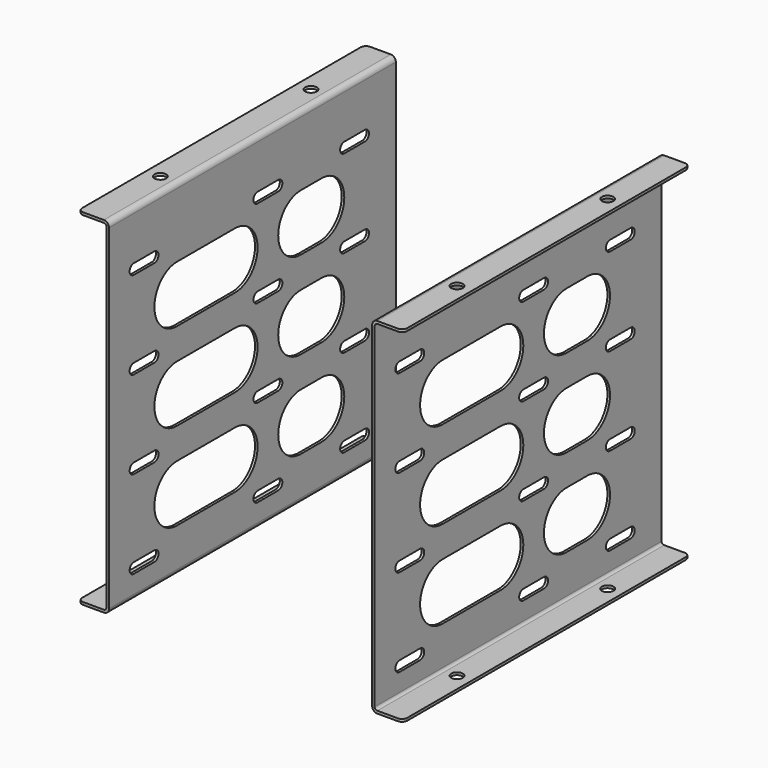
from build123d import *

# Parameters (mm, degrees)
F1_DEPTH  = 139
F3_D      = 4.5
F5_DEPTH  = 25
F6_R      = 2
F7_R      = 2
F8_R      = 2
F9_R      = 2
F11_DEPTH = 25


with BuildPart() as f1:
    # F0 (on Front) → F1 (new body)
    with BuildSketch(Plane.XZ):
        with BuildLine():
            Line((0, 1), (0, 0))
            Line((0, 0), (10, 0))
            ThreePointArc((10, 0), (11.414214, 0.585786), (12, 2))
            Line((12, 2), (12, 132))
            ThreePointArc((12, 132), (11.414214, 133.414214), (10, 134))
            Line((10, 134), (0, 134))
            Line((0, 134), (0, 133))
            Line((0, 133), (10, 133))
            ThreePointArc((10, 133), (10.707107, 132.707107), (11, 132))
            Line((11, 132), (11, 2))
            ThreePointArc((11, 2), (10.707107, 1.292893), (10, 1))
            Line((10, 1), (0, 1))
        make_face()
    extrude(amount=F1_DEPTH)

    # F3 (through all)
    with Locations(Plane.XY.offset(134)):
        with Locations((5.5, -106), (5.5, -33)):
            Hole(F3_D / 2)

    # F4 (on face) → F5 (cut)
    with BuildSketch(Plane(origin=(11, 0, 0), x_dir=(0, -1, 0), z_dir=(-1, 0, 0))):
        with BuildLine():
            Line((25, 13), (15, 13))
            ThreePointArc((15, 13), (13, 11), (15, 9))
            Line((15, 9), (25, 9))
            ThreePointArc((25, 9), (27, 11), (25, 13))
        make_face()
        with BuildLine():
            Line((25, 47), (15, 47))
            ThreePointArc((15, 47), (13, 45), (15, 43))
            Line((15, 43), (25, 43))
            ThreePointArc((25, 43), (27, 45), (25, 47))
        make_face()
        with BuildLine():
            Line((25, 81), (15, 81))
            ThreePointArc((15, 81), (13, 79), (15, 77))
            Line((15, 77), (25, 77))
            ThreePointArc((25, 77), (27, 79), (25, 81))
        make_face()
        with BuildLine():
            Line((25, 115), (15, 115))
            ThreePointArc((15, 115), (13, 113), (15, 111))
            Line((15, 111), (25, 111))
            ThreePointArc((25, 111), (27, 113), (25, 115))
        make_face()
        with BuildLine():
            Line((67, 13), (57, 13))
            ThreePointArc((57, 13), (55, 11), (57, 9))
            Line((57, 9), (67, 9))
            ThreePointArc((67, 9), (69, 11), (67, 13))
        make_face()
        with BuildLine():
            Line((67, 47), (57, 47))
            ThreePointArc((57, 47), (55, 45), (57, 43))
            Line((57, 43), (67, 43))
            ThreePointArc((67, 43), (69, 45), (67, 47))
        make_face()
        with BuildLine():
            Line((67, 81), (57, 81))
            ThreePointArc((57, 81), (55, 79), (57, 77))
            Line((57, 77), (67, 77))
            ThreePointArc((67, 77), (69, 79), (67, 81))
        make_face()
        with BuildLine():
            Line((67, 115), (57, 115))
            ThreePointArc((57, 115), (55, 113), (57, 111))
            Line((57, 111), (67, 111))
            ThreePointArc((67, 111), (69, 113), (67, 115))
        make_face()
        with BuildLine():
            Line((127, 13), (117, 13))
            ThreePointArc((117, 13), (115, 11), (117, 9))
            Line((117, 9), (127, 9))
            ThreePointArc((127, 9), (129, 11), (127, 13))
        make_face()
        with BuildLine():
            Line((127, 47), (117, 47))
            ThreePointArc((117, 47), (115, 45), (117, 43))
            Line((117, 43), (127, 43))
            ThreePointArc((127, 43), (129, 45), (127, 47))
        make_face()
        with BuildLine():
            Line((127, 81), (117, 81))
            ThreePointArc((117, 81), (115, 79), (117, 77))
            Line((117, 77), (127, 77))
            ThreePointArc((127, 77), (129, 79), (127, 81))
        make_face()
        with BuildLine():
            Line((127, 115), (117, 115))
            ThreePointArc((117, 115), (115, 113), (117, 111))
            Line((117, 111), (127, 111))
            ThreePointArc((127, 111), (129, 113), (127, 115))
        make_face()
    extrude(amount=-F5_DEPTH, mode=Mode.SUBTRACT)

    # F6
    f6_edges = [f1.edges().sort_by_distance(p)[0] for p in [
        (0, -139, 133.5),
    ]]
    fillet(f6_edges, radius=F6_R)

    # F7
    f7_edges = [f1.edges().sort_by_distance(p)[0] for p in [
        (0, -139, 0.5),
    ]]
    fillet(f7_edges, radius=F7_R)

    # F8
    f8_edges = [f1.edges().sort_by_distance(p)[0] for p in [
        (0, 0, 0.5),
    ]]
    fillet(f8_edges, radius=F8_R)

    # F9
    f9_edges = [f1.edges().sort_by_distance(p)[0] for p in [
        (0, 0, 133.5),
    ]]
    fillet(f9_edges, radius=F9_R)

    # F10 (on face) → F11 (cut)
    with BuildSketch(Plane(origin=(11, 0, 0), x_dir=(0, -1, 0), z_dir=(-1, 0, 0))):
        with BuildLine():
            Line((46, 39), (36, 39))
            ThreePointArc((36, 39), (25, 28), (36, 17))
            Line((36, 17), (46, 17))
            ThreePointArc((46, 17), (57, 28), (46, 39))
        make_face()
        with BuildLine():
            Line((46, 73), (36, 73))
            ThreePointArc((36, 73), (25, 62), (36, 51))
            Line((36, 51), (46, 51))
            ThreePointArc((46, 51), (57, 62), (46, 73))
        make_face()
        with BuildLine():
            Line((46, 107), (36, 107))
            ThreePointArc((36, 107), (25, 96), (36, 85))
            Line((36, 85), (46, 85))
            ThreePointArc((46, 85), (57, 96), (46, 107))
        make_face()
        with BuildLine():
            Line((106, 39), (78, 39))
            ThreePointArc((78, 39), (67, 28), (78, 17))
            Line((78, 17), (106, 17))
            ThreePointArc((106, 17), (117, 28), (106, 39))
        make_face()
        with BuildLine():
            ThreePointArc((78, 73), (67, 62), (78, 51))
            Line((78, 51), (106, 51))
            ThreePointArc((106, 51), (117, 62), (106, 73))
            Line((106, 73), (78, 73))
        make_face()
        with BuildLine():
            ThreePointArc((78, 107), (67, 96), (78, 85))
            Line((78, 85), (106, 85))
            ThreePointArc((106, 85), (117, 96), (106, 107))
            Line((106, 107), (78, 107))
        make_face()
    extrude(amount=-F11_DEPTH, mode=Mode.SUBTRACT)


with BuildPart() as f13_1:
    # F13: instance of F1
    add(f1.part.mirror(Plane.YZ.offset(63)))


solid = Compound([f1.part, f13_1.part])
